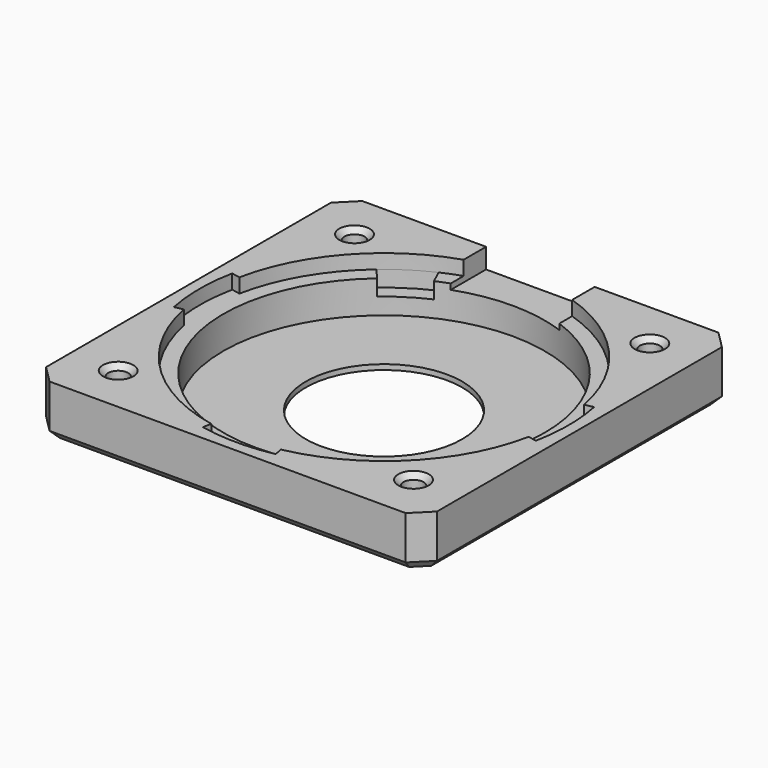
from build123d import *

# Parameters (mm, degrees)
SKETCH_W         = 45
SKETCH_H         = 45
SKETCH_R         = 18.5
PAD_DEPTH        = 6
SKETCH001_R      = 18.5
SKETCH001_R_2    = 9
PAD001_DEPTH     = 0.6
POCKET_DEPTH     = 5.65
HOLE_D           = 2.3
HOLE_DEPTH       = 9.4
HOLE_CSINK_D     = 3.5
HOLE_CSINK_ANGLE = 90
CHAMFER_SIZE     = 2
CHAMFER001_SIZE  = 1
SKETCH004_W      = 12.5
SKETCH004_H      = 25
POCKET002_DEPTH  = 6.3
POCKET006_DEPTH  = 7.5
CHAMFER003_SIZE  = 0.6


with BuildPart() as part:
    # Sketch → Pad (new body)
    with BuildSketch(Plane.XY):
        Rectangle(SKETCH_W, SKETCH_H)
        Circle(SKETCH_R, mode=Mode.SUBTRACT)
    extrude(amount=PAD_DEPTH)

    # Sketch001 → Pad001 (join)
    with BuildSketch(Plane.XY):
        Circle(SKETCH001_R)
        Circle(SKETCH001_R_2, mode=Mode.SUBTRACT)
    extrude(amount=PAD001_DEPTH)

    # Sketch002 → Pocket (cut)
    with BuildSketch(Plane.XY.offset(10)):
        with BuildLine():
            ThreePointArc((19.851008, 4), (0, 20.25), (-19.851008, 4))
            Line((-20.831304, 4.197531), (-19.851008, 4))
            ThreePointArc((-20.831304, 4.197531), (-21.25, 0), (-20.831304, -4.197531))
            Line((-20.831304, -4.197531), (-19.851008, -4))
            ThreePointArc((-19.851008, -4), (-14.318912, -14.318912), (-4, -19.851008))
            Line((-4.197531, -20.831304), (-4, -19.851008))
            ThreePointArc((-4.197531, -20.831304), (0, -21.25), (4.197531, -20.831304))
            Line((4.197531, -20.831304), (4, -19.851008))
            ThreePointArc((4, -19.851008), (14.318912, -14.318912), (19.851008, -4))
            Line((19.851008, -4), (20.831304, -4.197531))
            ThreePointArc((20.831304, -4.197531), (21.25, 0), (20.831304, 4.197531))
            Line((19.851008, 4), (20.831304, 4.197531))
        make_face()
    extrude(amount=-POCKET_DEPTH, mode=Mode.SUBTRACT)

    # Hole
    with Locations(Plane.XY.offset(10)):
        with Locations((-17, 17), (-17, -17), (17, -17), (17, 17)):
            CounterSinkHole(HOLE_D / 2, HOLE_CSINK_D / 2, depth=HOLE_DEPTH, counter_sink_angle=HOLE_CSINK_ANGLE)

    # Chamfer
    chamfer_edges = [part.edges().sort_by_distance(p)[0] for p in [
        (22.5, -22.5, 3),
        (-22.5, -22.5, 3),
        (22.5, 22.5, 3),
        (-22.5, 22.5, 3),
    ]]
    chamfer(chamfer_edges, length=CHAMFER_SIZE)

    # Chamfer001
    chamfer001_edges = [part.edges().sort_by_distance(p)[0] for p in [
        (0, 22.5, 0),
        (-22.5, 0, 0),
        (-21.5, 21.5, 0),
        (22.5, 0, 0),
        (-21.5, -21.5, 0),
        (21.5, 21.5, 0),
        (0, -22.5, 0),
        (21.5, -21.5, 0),
    ]]
    chamfer(chamfer001_edges, length=CHAMFER001_SIZE)

    # Sketch004 → Pocket002 (cut)
    with BuildSketch(Plane.XY.offset(10)):
        with Locations((0, 12.5)):
            Rectangle(SKETCH004_W, SKETCH004_H)
    extrude(amount=-POCKET002_DEPTH, mode=Mode.SUBTRACT)

    # Sketch006 → Pocket006 (cut)
    with BuildSketch(Plane.XY.offset(10)):
        with BuildLine():
            Line((-13.175878, 15.377215), (-11.711892, 13.668635))
            ThreePointArc((-7.5, 16.363068), (-9.699958, 15.16281), (-11.711892, 13.668635))
            Line((-8.4375, 18.408452), (-7.5, 16.363068))
            ThreePointArc((-8.4375, 18.408452), (-10.912453, 17.058161), (-13.175878, 15.377215))
        make_face()
    extrude(amount=-POCKET006_DEPTH, mode=Mode.SUBTRACT)

    # Chamfer003
    chamfer003_edges = [part.edges().sort_by_distance(p)[0] for p in [
        (15.85, -17, 6),
        (-18.15, -17, 6),
        (-18.15, 17, 6),
        (15.85, 17, 6),
    ]]
    chamfer(chamfer003_edges, length=CHAMFER003_SIZE)


solid = part.part
